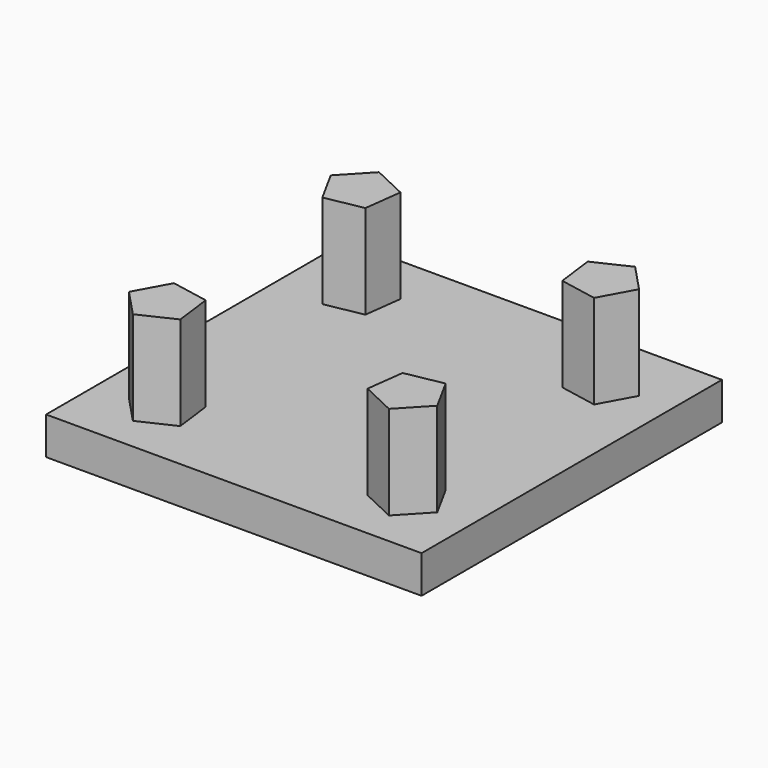
from build123d import *

# Parameters (mm, degrees)
F0_W     = 25.4
F0_H     = 25.4
F1_DEPTH = 2.54
F2_DEPTH = 8.89


with BuildPart() as f1:
    # F0 (on Top) → F1 (new body)
    with BuildSketch(Plane.XY):
        with Locations((14.371051, -20.386844)):
            Rectangle(F0_W, F0_H)
        Polygon((8.037169, -29.694788), (5.7083, -30.794313), (3.942929, -28.919199), (5.180739, -26.660789), (7.711119, -27.14013), align=None, mode=Mode.SUBTRACT)
        Polygon((21.030984, -27.14013), (23.561364, -26.660789), (24.799173, -28.919199), (23.033802, -30.794313), (20.704933, -29.694788), align=None, mode=Mode.SUBTRACT)
        Polygon((5.7083, -9.979374), (8.037169, -11.0789), (7.711119, -13.633558), (5.180739, -14.112898), (3.942929, -11.854488), align=None, mode=Mode.SUBTRACT)
        Polygon((20.704933, -11.0789), (23.033802, -9.979374), (24.799173, -11.854488), (23.561364, -14.112898), (21.030984, -13.633558), align=None, mode=Mode.SUBTRACT)
    extrude(amount=F1_DEPTH)

    # F0 (on Top) → F2 (join)
    with BuildSketch(Plane.XY):
        Polygon((7.711119, -13.633558), (8.037169, -11.0789), (5.7083, -9.979374), (3.942929, -11.854488), (5.180739, -14.112898), align=None)
        Polygon((24.799173, -11.854488), (23.033802, -9.979374), (20.704933, -11.0789), (21.030984, -13.633558), (23.561364, -14.112898), align=None)
        Polygon((24.799173, -28.919199), (23.561364, -26.660789), (21.030984, -27.14013), (20.704933, -29.694788), (23.033802, -30.794313), align=None)
        Polygon((3.942929, -28.919199), (5.7083, -30.794313), (8.037169, -29.694788), (7.711119, -27.14013), (5.180739, -26.660789), align=None)
    extrude(amount=F2_DEPTH)


solid = f1.part
